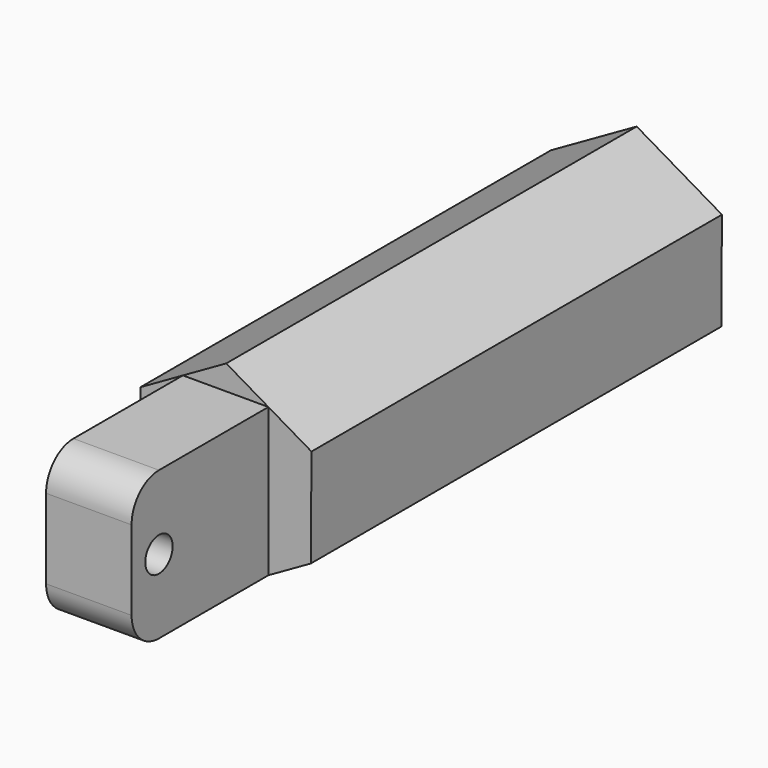
from build123d import *

# Parameters (mm, degrees)
F1_DEPTH = 19.05
F2_W     = 3.175
F2_H     = 5.499398
F3_DEPTH = 6.35
F4_R     = 1.27
F6_D     = 1.27
F6_DEPTH = 25.4


with BuildPart() as f1:
    # F0 (on Front) → F1 (new body)
    with BuildSketch(Plane.XZ):
        Polygon((3.186096, 1.813733), (0.022309, 3.666106), (-3.163787, 1.852373), (-3.186096, -1.813733), (-0.022309, -3.666106), (3.163787, -1.852373), align=None)
    extrude(amount=F1_DEPTH)

    # F2 (on face) → F3 (join)
    with BuildSketch(Plane.XZ.offset(19.05)):
        Rectangle(F2_W, F2_H)
    extrude(amount=F3_DEPTH)

    # F4
    f4_edges = [f1.edges().sort_by_distance(p)[0] for p in [
        (0, -25.4, 2.749699),
        (0, -25.4, -2.749699),
    ]]
    fillet(f4_edges, radius=F4_R)

    # F6
    with Locations(Plane.YZ.offset(1.5875)):
        with Locations((-24.13, 0)):
            Hole(F6_D / 2, depth=F6_DEPTH)


solid = f1.part
